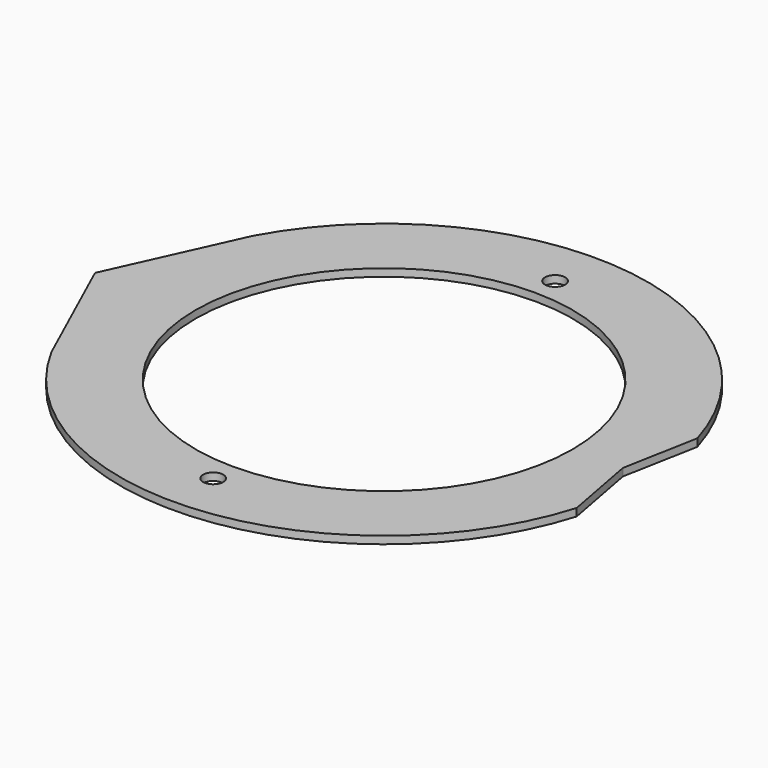
from build123d import *

# Parameters (mm, degrees)
F0_R     = 4
F1_DEPTH = 3


with BuildPart() as f1:
    # F0 (on Top) → F1 (new body)
    with BuildSketch(Plane.XY):
        with BuildLine():
            Line((85, 0), (75, 0))
            ThreePointArc((75, 0), (0, -75), (-75, 0))
            Line((-75, 0), (-85, 0))
            ThreePointArc((-85, 0), (-87.5, 9.330127), (-90, 0))
            Line((-90, 0), (-115, 0))
            Line((-115, 0), (-92.330925, -50))
            ThreePointArc((-92.330925, -50), (10.825427, -104.44046), (100.623057, -30))
            Line((100.623057, -30), (95, 0))
            Line((95, 0), (90, 0))
            ThreePointArc((90, 0), (87.5, -9.330127), (85, 0))
        make_face()
        with Locations((0, -85)):
            Circle(F0_R, mode=Mode.SUBTRACT)
        with BuildLine():
            ThreePointArc((-75, 0), (0, 75), (75, 0))
            Line((75, 0), (85, 0))
            ThreePointArc((85, 0), (87.5, -9.330127), (90, 0))
            Line((90, 0), (95, 0))
            Line((95, 0), (100.623057, 30))
            ThreePointArc((100.623057, 30), (10.825427, 104.44046), (-92.330925, 50))
            Line((-92.330925, 50), (-115, 0))
            Line((-115, 0), (-90, 0))
            ThreePointArc((-90, 0), (-87.5, 9.330127), (-85, 0))
            Line((-85, 0), (-75, 0))
        make_face()
        with Locations((0, 85)):
            Circle(F0_R, mode=Mode.SUBTRACT)
    extrude(amount=F1_DEPTH)


solid = f1.part
